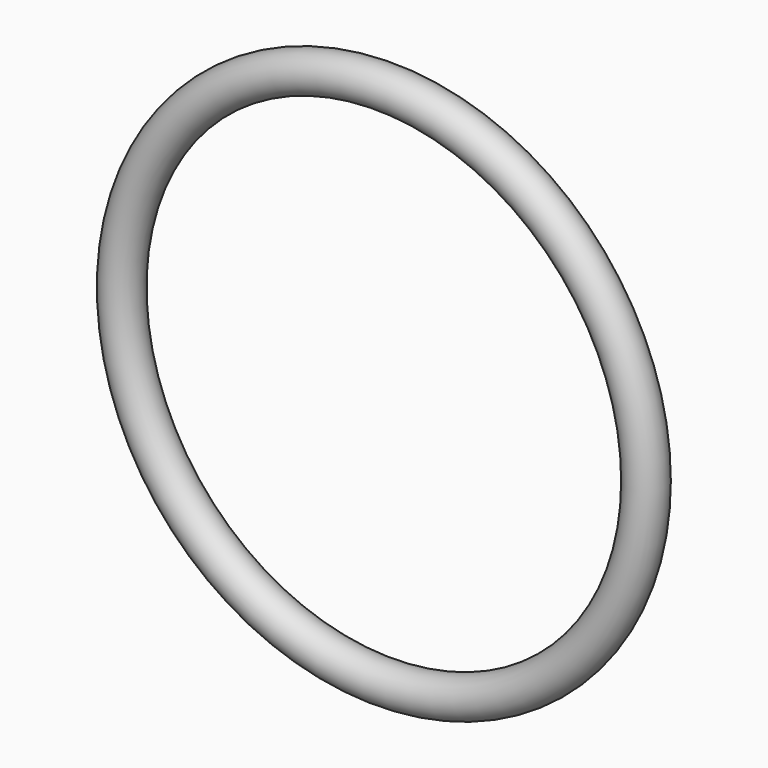
from build123d import *

# Parameters (mm, degrees)
F1_R = 1


with BuildPart() as f2:
    # F2: sweep along a path in F0
    with BuildLine(Plane.XZ) as f2_path:
        CenterArc((0, 0), 13.5, 0, 360)
    # F1 (on Top) → F2 (sweep)
    with BuildSketch(Plane.XY):
        with Locations((13.5, 0)):
            Circle(F1_R)
    sweep(path=f2_path.line)


solid = f2.part
